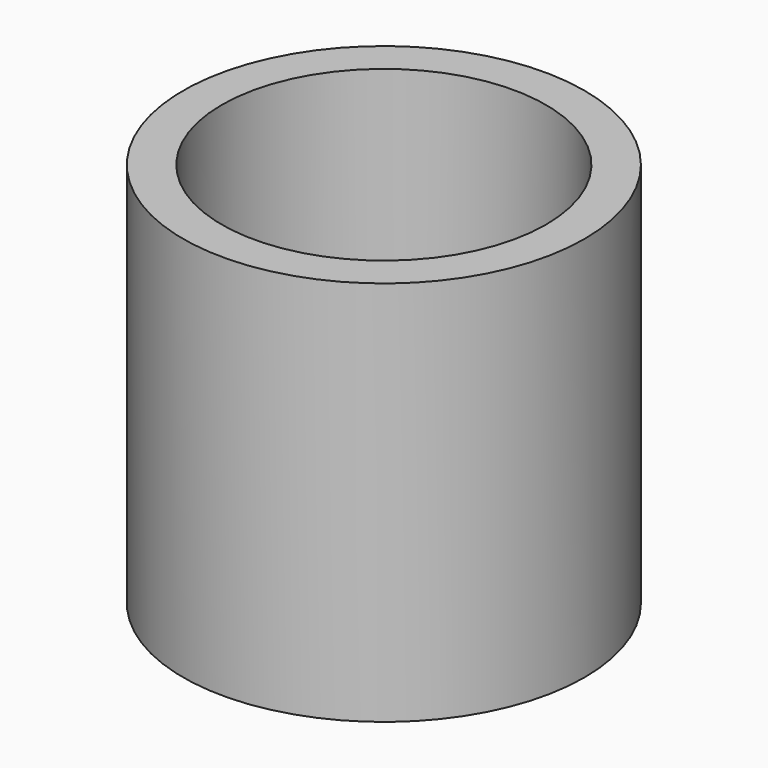
from build123d import *

# Parameters (mm, degrees)
CYLINDER_R        = 5.2
CYLINDER_DEPTH    = 10
CYLINDER001_R     = 4.2
CYLINDER001_DEPTH = 10


with BuildPart() as part:
    # Cylinder → Cylinder (join)
    with BuildSketch(Plane.XY):
        Circle(CYLINDER_R)
    extrude(amount=CYLINDER_DEPTH)

    # Cylinder001 → Cylinder001 (cut)
    with BuildSketch(Plane.XY):
        Circle(CYLINDER001_R)
    extrude(amount=CYLINDER001_DEPTH, mode=Mode.SUBTRACT)


solid = part.part
